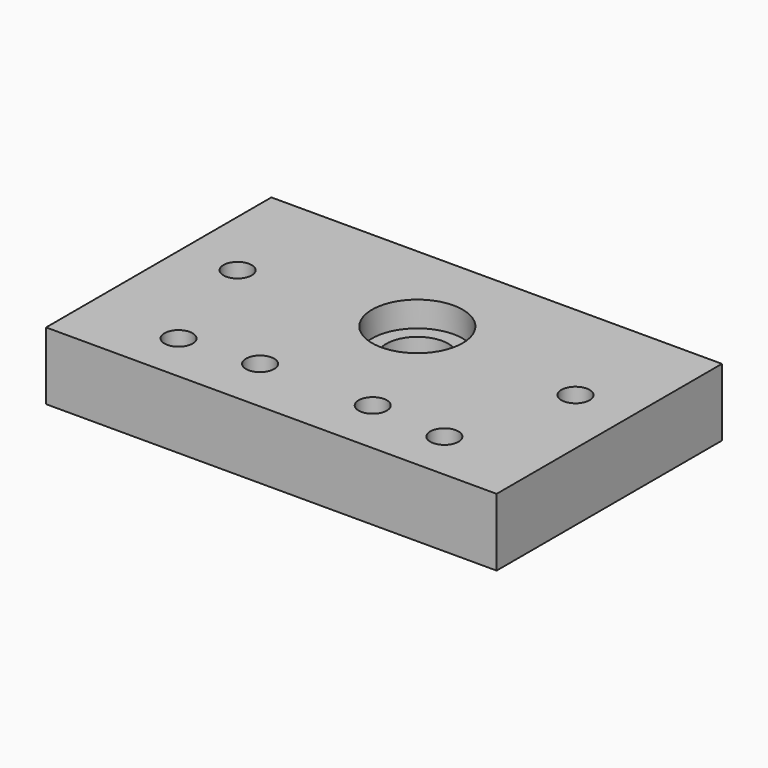
from build123d import *

# Parameters (mm, degrees)
SKETCH124_W     = 80
SKETCH124_H     = 50
SKETCH124_R     = 2.5
SKETCH124_R_2   = 5.5
PAD039_DEPTH    = 12
SKETCH125_R     = 2.5
POCKET080_DEPTH = 11
SKETCH126_R     = 8.05
POCKET081_DEPTH = 4.5
SKETCH127_R     = 4.6
SKETCH127_R_2   = 4.624594
SKETCH127_R_3   = 4.583454
SKETCH127_R_4   = 4.624604
POCKET082_DEPTH = 1.55


with BuildPart() as part:
    # Sketch124 → Pad039 (new body)
    with BuildSketch(Plane(origin=(180, 40, 78), x_dir=(1, 0, 0), z_dir=(0, 0, 1))):
        with Locations((40, 25)):
            Rectangle(SKETCH124_W, SKETCH124_H)
        with Locations((10, 30)):
            Circle(SKETCH124_R, mode=Mode.SUBTRACT)
        with Locations((30, 10)):
            Circle(SKETCH124_R, mode=Mode.SUBTRACT)
        with Locations((16.4, 8.9)):
            Circle(SKETCH124_R, mode=Mode.SUBTRACT)
        with Locations((50, 10)):
            Circle(SKETCH124_R, mode=Mode.SUBTRACT)
        with Locations((63.6, 8.9)):
            Circle(SKETCH124_R, mode=Mode.SUBTRACT)
        with Locations((70, 30)):
            Circle(SKETCH124_R, mode=Mode.SUBTRACT)
        with Locations((40, 32.4)):
            Circle(SKETCH124_R_2, mode=Mode.SUBTRACT)
    extrude(amount=PAD039_DEPTH)

    # Sketch125 → Pocket080 (cut)
    with BuildSketch(Plane(origin=(180, 90, 78), x_dir=(-1, 0, 0), z_dir=(0, 1, 0))):
        with Locations((-30.033846, 5.850095)):
            Circle(SKETCH125_R)
        with Locations((-50.003807, 5.788844)):
            Circle(SKETCH125_R)
    extrude(amount=-POCKET080_DEPTH, mode=Mode.SUBTRACT)

    # Sketch126 → Pocket081 (cut)
    with BuildSketch(Plane(origin=(180, 40, 90), x_dir=(1, 0, 0), z_dir=(0, 0, 1))):
        with Locations((40, 32.4)):
            Circle(SKETCH126_R)
    extrude(amount=-POCKET081_DEPTH, mode=Mode.SUBTRACT)

    # Sketch127 → Pocket082 (cut)
    with BuildSketch(Plane(origin=(180, 40, 78), x_dir=(1, 0, 0), z_dir=(0, 0, -1))):
        with Locations((10, -30)):
            Circle(SKETCH127_R)
        with Locations((70, -30)):
            Circle(SKETCH127_R_2)
        with Locations((30, -10)):
            Circle(SKETCH127_R_3)
        with Locations((50, -10)):
            Circle(SKETCH127_R_4)
    extrude(amount=-POCKET082_DEPTH, mode=Mode.SUBTRACT)


solid = part.part
